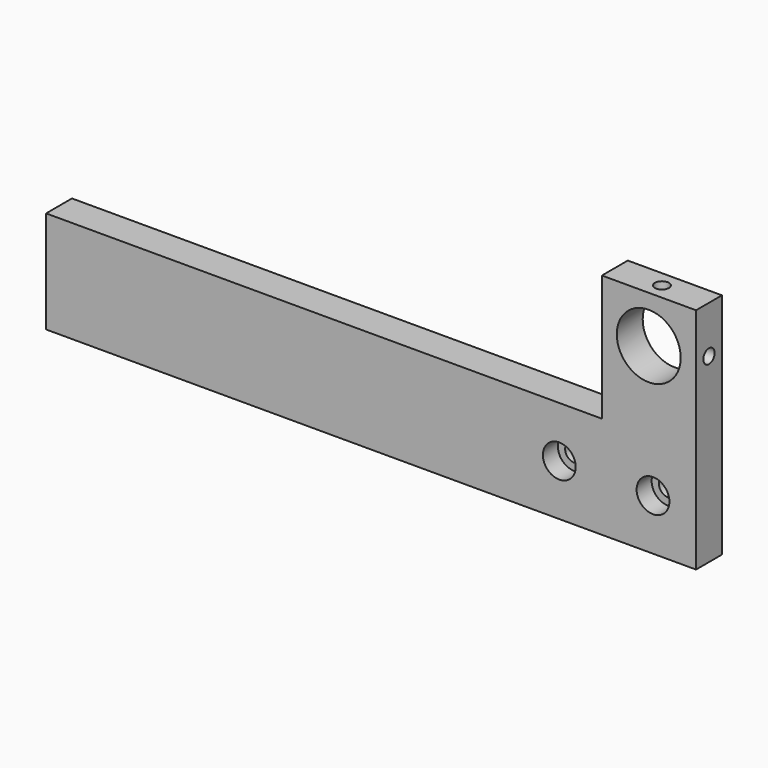
from build123d import *

# Parameters (mm, degrees)
F1_DEPTH       = 9.652
F3_D           = 5.461
F3_CBORE_D     = 9.779
F3_CBORE_DEPTH = 5.588
F5_D           = 19.05
F7_D           = 4.2
F7_DEPTH       = 12.7
F7_TIP         = 1.2618073
F9_D           = 4.2
F9_DEPTH       = 12.7
F9_TIP         = 1.2618073
F11_D          = 4.2
F11_DEPTH      = 17.272
F11_TIP        = 1.2618073


with BuildPart() as f1:
    # F0 (on Front) → F1 (new body)
    with BuildSketch(Plane.XZ):
        Polygon((-79.8280344415, 30.48), (-79.8280344415, 0), (113.9739655585, 0), (113.9739655585, 68.072), (85.9069655585, 68.072), (85.9069655585, 30.48), align=None)
    extrude(amount=-F1_DEPTH)

    # F3 (through all)
    with Locations(Plane.XZ):
        with Locations((73.2069655585, 15.24), (101.1469655585, 15.24)):
            CounterBoreHole(F3_D / 2, F3_CBORE_D / 2, F3_CBORE_DEPTH)

    # F5 (through all)
    with Locations(Plane.XZ):
        with Locations((99.8769655585, 54.102)):
            Hole(F5_D / 2)

    # F7
    with Locations(Plane.XY.offset(68.072)):
        with Locations((99.9404655585, 4.826)):
            Hole(F7_D / 2, depth=F7_DEPTH)
            with Locations((0, 0, -(F7_DEPTH + F7_TIP / 2))):  # 118° drill point
                Cone(0, F7_D / 2, F7_TIP, mode=Mode.SUBTRACT)

    # F9
    with Locations(Plane.YZ.offset(113.9739655585)):
        with Locations((4.826, 54.063147307)):
            Hole(F9_D / 2, depth=F9_DEPTH)
            with Locations((0, 0, -(F9_DEPTH + F9_TIP / 2))):  # 118° drill point
                Cone(0, F9_D / 2, F9_TIP, mode=Mode.SUBTRACT)

    # F11
    with Locations(Plane(origin=(-79.8280344415, 0, 0), x_dir=(0, -1, 0), z_dir=(-1, 0, 0))):
        with Locations((-4.826, 20.32), (-4.826, 10.16)):
            Hole(F11_D / 2, depth=F11_DEPTH)
            with Locations((0, 0, -(F11_DEPTH + F11_TIP / 2))):  # 118° drill point
                Cone(0, F11_D / 2, F11_TIP, mode=Mode.SUBTRACT)


with BuildPart() as f12_1:
    # F12: copy of F1
    add(f1.part)


solid = f1.part
